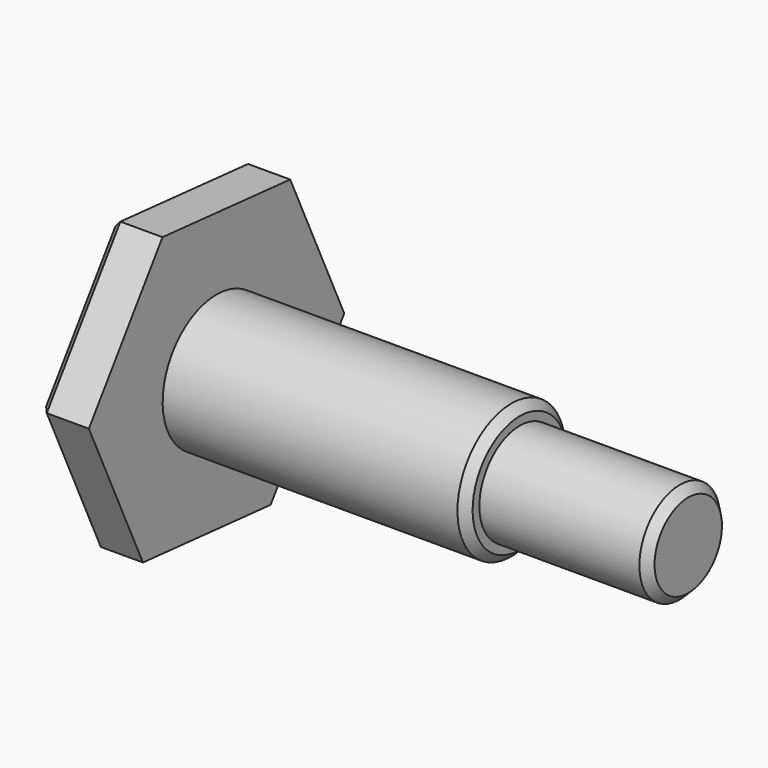
from build123d import *

# Parameters (mm, degrees)
F2_R     = 11.382986
F3_DEPTH = 25
F4_SIZE  = 0.5
F5_SIZE  = 0.5
F6_SIZE  = 0.5


with BuildPart() as f1:
    # F0 (on Front) → F1 (revolve)
    with BuildSketch(Plane.XZ):
        Polygon((0, 10), (0, 0), (31, 0), (31, 3), (21, 3), (21, 4), (3, 4), (3, 10), align=None)
    revolve(axis=Axis((15.5, 0, 0), (1, 0, 0)))

    # F2 (on face) → F3 (cut)
    with BuildSketch(Plane(origin=(0, 0, 0), x_dir=(0, -1, 0), z_dir=(-1, 0, 0))):
        Circle(F2_R)
        Polygon((-5.463653, 7.787273), (4.01215, 8.625299), (9.475803, 0.838026), (5.463653, -7.787273), (-4.01215, -8.625299), (-9.475803, -0.838026), align=None, mode=Mode.SUBTRACT)
    extrude(amount=-F3_DEPTH, mode=Mode.SUBTRACT)

    # F4
    f4_edges = [f1.edges().sort_by_distance(p)[0] for p in [
        (21, 0, -4),
    ]]
    chamfer(f4_edges, length=F4_SIZE)

    # F5
    f5_edges = [f1.edges().sort_by_distance(p)[0] for p in [
        (31, 0, -3),
    ]]
    chamfer(f5_edges, length=F5_SIZE)

    # F6
    f6_edges = [f1.edges().sort_by_distance(p)[0] for p in [
        (0, 6.743976, -4.731663),
        (0, -0.725752, -8.206286),
        (0, -7.469728, -3.474624),
        (0, -6.743976, 4.731663),
        (0, 0.725752, 8.206286),
        (0, 7.469728, 3.474624),
    ]]
    chamfer(f6_edges, length=F6_SIZE)


solid = f1.part
